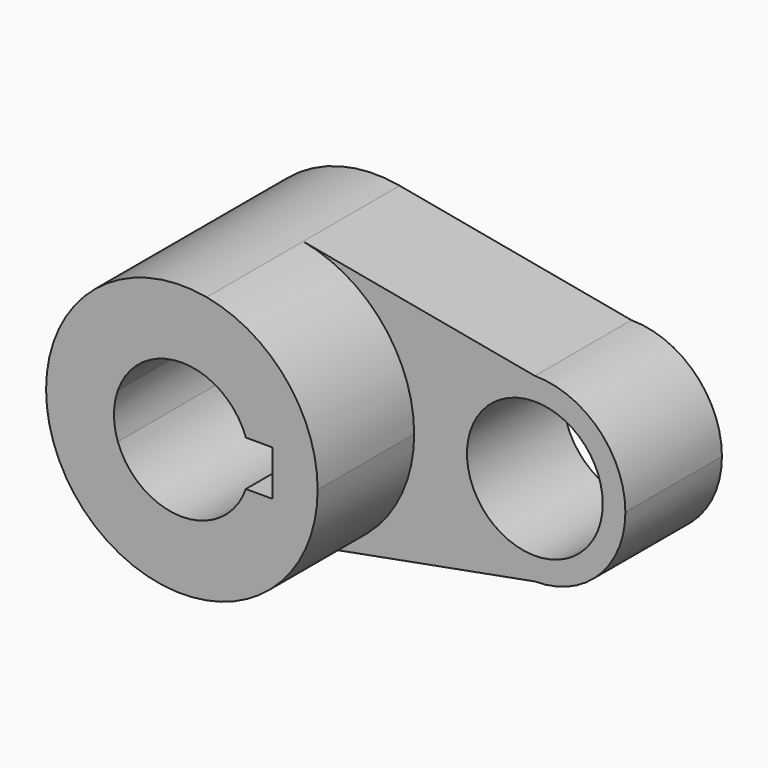
from build123d import *

# Parameters (mm, degrees)
F0_R     = 14.2875
F1_DEPTH = 25.4
F2_DEPTH = 50.8
F3_DEPTH = 50.8


with BuildPart() as f1:
    # F0 (on Front) → F1 (new body)
    with BuildSketch(Plane.XZ):
        with BuildLine():
            ThreePointArc((5.211817, -28.095686), (21.971098, -18.270235), (28.575, 0))
            ThreePointArc((28.575, 0), (21.971098, 18.270235), (5.211817, 28.095686))
            ThreePointArc((5.211817, 28.095686), (-28.575, 0), (5.211817, -28.095686))
        make_face()
        with BuildLine():
            ThreePointArc((-13.470384, 4.7625), (0, 14.2875), (13.470384, 4.7625))
            Line((13.470384, 4.7625), (19.05, 4.7625))
            Line((19.05, 4.7625), (19.05, -4.7625))
            Line((19.05, -4.7625), (13.470384, -4.7625))
            ThreePointArc((13.470384, -4.7625), (0, -14.2875), (-13.470384, -4.7625))
            Line((-13.470384, -4.7625), (-19.05, -4.7625))
            Line((-19.05, -4.7625), (-19.05, 4.7625))
            Line((-19.05, 4.7625), (-13.470384, 4.7625))
        make_face(mode=Mode.SUBTRACT)
        with BuildLine():
            ThreePointArc((5.211817, 28.095686), (21.971098, 18.270235), (28.575, 0))
            ThreePointArc((28.575, 0), (21.971098, -18.270235), (5.211817, -28.095686))
            Line((5.211817, -28.095686), (53.975, -19.05))
            ThreePointArc((53.975, -19.05), (34.925, 0), (53.975, 19.05))
            Line((53.975, 19.05), (5.211817, 28.095686))
        make_face()
        with BuildLine():
            ThreePointArc((73.025, 0), (67.445384, 13.470384), (53.975, 19.05))
            ThreePointArc((53.975, 19.05), (34.925, 0), (53.975, -19.05))
            ThreePointArc((53.975, -19.05), (67.445384, -13.470384), (73.025, 0))
        make_face()
        with Locations((53.975, 0)):
            Circle(F0_R, mode=Mode.SUBTRACT)
    extrude(amount=F1_DEPTH)

    # F0 (on Front) → F2 (join)
    with BuildSketch(Plane.XZ):
        with BuildLine():
            ThreePointArc((5.211817, -28.095686), (21.971098, -18.270235), (28.575, 0))
            ThreePointArc((28.575, 0), (21.971098, 18.270235), (5.211817, 28.095686))
            ThreePointArc((5.211817, 28.095686), (-28.575, 0), (5.211817, -28.095686))
        make_face()
        with BuildLine():
            ThreePointArc((-13.470384, 4.7625), (0, 14.2875), (13.470384, 4.7625))
            Line((13.470384, 4.7625), (19.05, 4.7625))
            Line((19.05, 4.7625), (19.05, -4.7625))
            Line((19.05, -4.7625), (13.470384, -4.7625))
            ThreePointArc((13.470384, -4.7625), (0, -14.2875), (-13.470384, -4.7625))
            Line((-13.470384, -4.7625), (-19.05, -4.7625))
            Line((-19.05, -4.7625), (-19.05, 4.7625))
            Line((-19.05, 4.7625), (-13.470384, 4.7625))
        make_face(mode=Mode.SUBTRACT)
    extrude(amount=F2_DEPTH)

    # F0 (on Front) → F3 (join)
    with BuildSketch(Plane.XZ):
        with BuildLine():
            ThreePointArc((-13.470384, -4.7625), (-14.2875, 0), (-13.470384, 4.7625))
            Line((-13.470384, 4.7625), (-19.05, 4.7625))
            Line((-19.05, 4.7625), (-19.05, -4.7625))
            Line((-19.05, -4.7625), (-13.470384, -4.7625))
        make_face()
    extrude(amount=F3_DEPTH)


solid = f1.part
